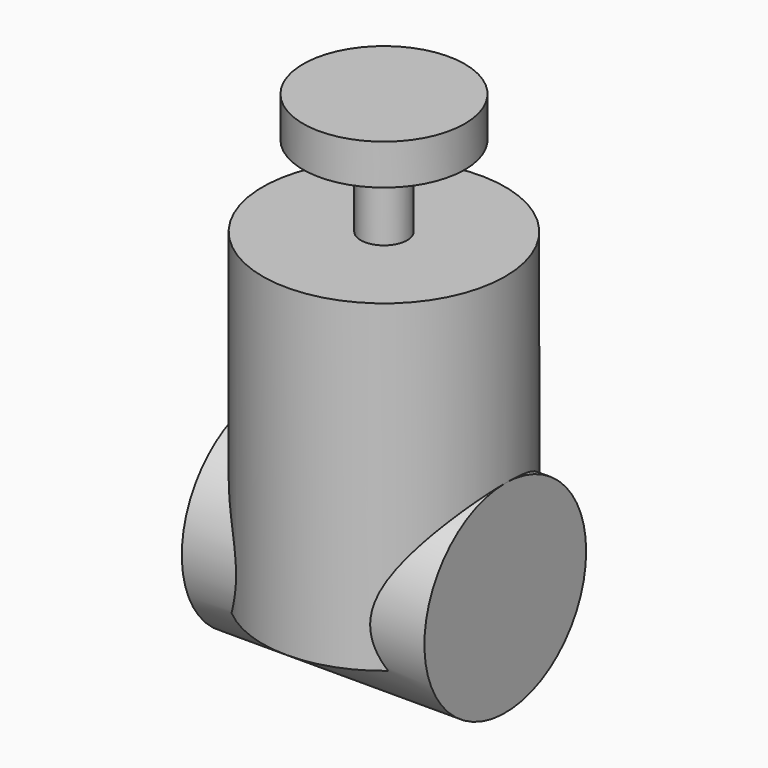
from build123d import *

# Parameters (mm, degrees)
F0_R     = 38.1
F1_DEPTH = 50.8
F2_R     = 31.75
F3_DEPTH = 38.1
F4_R     = 7.300399
F5_DEPTH = 25.4
F6_R     = 25.4
F7_DEPTH = 12.7


with BuildPart() as f1:
    # F0 (on Top) → F1 (new body, symmetric)
    with BuildSketch(Plane.XY):
        Circle(F0_R)
    extrude(amount=F1_DEPTH, both=True)

    # F2 (on Right) → F3 (join, symmetric)
    with BuildSketch(Plane.YZ):
        with Locations((0, -38.1)):
            Circle(F2_R)
    extrude(amount=F3_DEPTH, both=True)


with BuildPart() as f5:
    # F4 (on face) → F5 (new body)
    with BuildSketch(Plane.XY.offset(50.8)):
        Circle(F4_R)
    extrude(amount=F5_DEPTH)


with BuildPart() as f7:
    # F6 (on face) → F7 (new body)
    with BuildSketch(Plane.XY.offset(76.2)):
        Circle(F6_R)
    extrude(amount=F7_DEPTH)


solid = Compound([f1.part, f5.part, f7.part])
